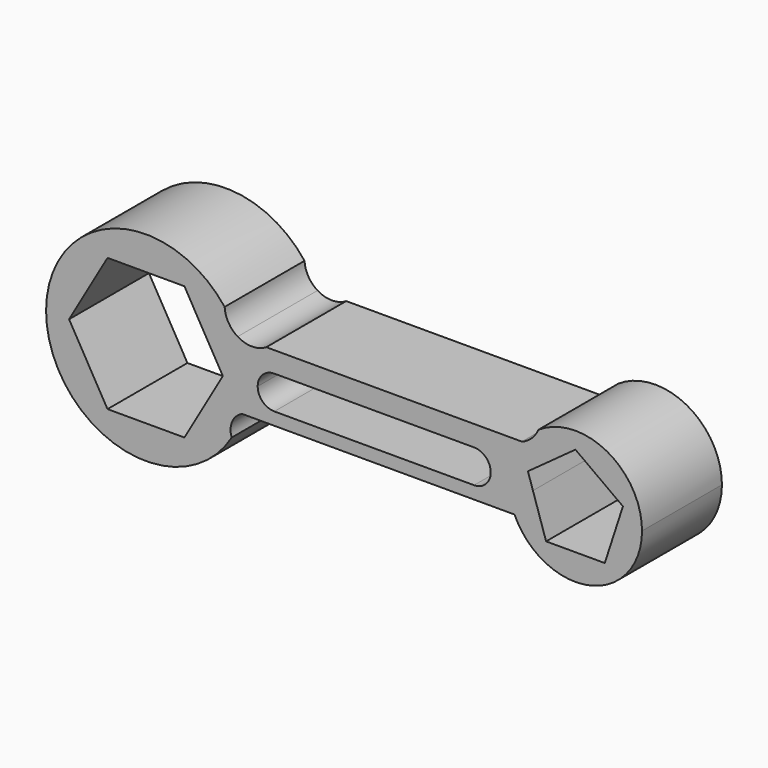
from build123d import *

# Parameters (mm, degrees)
F1_DEPTH = 30


with BuildPart() as f1:
    # F0 (on Front) → F1 (new body)
    with BuildSketch(Plane.XZ):
        with BuildLine():
            ThreePointArc((-75.37317, 11.881729), (-78.141593, 14.693346), (-79.280649, 18.471164))
            ThreePointArc((-79.280649, 18.471164), (-132.861911, -1.86504), (-77.171185, -15.394857))
            ThreePointArc((-77.171185, -15.394857), (-77.037469, -11.140109), (-74.03926, -8.118271))
            ThreePointArc((-74.03926, -8.118271), (-72.986443, 1.99643), (-75.37317, 11.881729))
        make_face()
        Polygon((-126.013951, 0), (-114.466945, 20), (-91.372935, 20), (-79.825929, 0), (-91.372935, -20), (-114.466945, -20), align=None, mode=Mode.SUBTRACT)
        with BuildLine():
            ThreePointArc((-66.770934, 11.881729), (-71.072052, 10.666475), (-75.37317, 11.881729))
            ThreePointArc((-75.37317, 11.881729), (-72.986443, 1.99643), (-74.03926, -8.118271))
            ThreePointArc((-74.03926, -8.118271), (-71.700224, -7.626694), (-69.361188, -8.118271))
            Line((-69.361188, -8.118271), (2.590253, -8.118271))
            ThreePointArc((2.590253, -8.118271), (5.196042, -7.350089), (7.801831, -8.118271))
            ThreePointArc((7.801831, -8.118271), (6.515237, -4.149422), (6.08006, 0))
            ThreePointArc((6.08006, 0), (7.083212, 6.254579), (9.992036, 11.881729))
            ThreePointArc((9.992036, 11.881729), (7.154561, 11.386775), (4.317087, 11.881729))
            Line((4.317087, 11.881729), (-66.770934, 11.881729))
        make_face()
        with BuildLine():
            ThreePointArc((-69.361188, 0.682914), (-67.896721, 4.218448), (-64.361188, 5.682914))
            Line((-64.361188, 5.682914), (-4.361188, 5.682914))
            ThreePointArc((-4.361188, 5.682914), (-0.825654, 4.218448), (0.638812, 0.682914))
            ThreePointArc((0.638812, 0.682914), (-0.825654, -2.85262), (-4.361188, -4.317086))
            Line((-4.361188, -4.317086), (-64.361188, -4.317086))
            ThreePointArc((-64.361188, -4.317086), (-67.896721, -2.85262), (-69.361188, 0.682914))
        make_face(mode=Mode.SUBTRACT)
        with BuildLine():
            ThreePointArc((-69.361188, -8.118271), (-71.700224, -7.626694), (-74.03926, -8.118271))
            Line((-74.03926, -8.118271), (-69.361188, -8.118271))
        make_face()
        with BuildLine():
            Line((9.992036, 11.881729), (4.317087, 11.881729))
            ThreePointArc((4.317087, 11.881729), (7.154561, 11.386775), (9.992036, 11.881729))
        make_face()
        with BuildLine():
            ThreePointArc((7.801831, -8.118271), (5.196042, -7.350089), (2.590253, -8.118271))
            Line((2.590253, -8.118271), (7.801831, -8.118271))
        make_face()
        with BuildLine():
            ThreePointArc((14.90952, 16.589727), (12.950355, 13.713922), (9.992036, 11.881729))
            ThreePointArc((9.992036, 11.881729), (7.083212, 6.254579), (6.08006, 0))
            Line((6.08006, 0), (13.320298, 0))
            Line((13.320298, 0), (11.814212, 4.635255))
            Line((11.814212, 4.635255), (26.08006, 15))
            Line((26.08006, 15), (40.345908, 4.635255))
            Line((40.345908, 4.635255), (38.839822, 0))
            Line((38.839822, 0), (46.08006, 0))
            ThreePointArc((46.08006, 0), (35.476581, 17.65518), (14.90952, 16.589727))
        make_face()
        with BuildLine():
            ThreePointArc((9.992036, -11.881729), (9.347849, -9.737582), (7.801831, -8.118271))
            ThreePointArc((7.801831, -8.118271), (8.794206, -10.059784), (9.992036, -11.881729))
        make_face()
        with BuildLine():
            ThreePointArc((6.08006, 0), (6.515237, -4.149422), (7.801831, -8.118271))
            ThreePointArc((7.801831, -8.118271), (9.347849, -9.737582), (9.992036, -11.881729))
            ThreePointArc((9.992036, -11.881729), (32.334639, -18.996848), (46.08006, 0))
            Line((46.08006, 0), (38.839822, 0))
            Line((38.839822, 0), (34.896839, -12.135255))
            Line((34.896839, -12.135255), (17.263281, -12.135255))
            Line((17.263281, -12.135255), (13.320298, 0))
            Line((13.320298, 0), (6.08006, 0))
        make_face()
    extrude(amount=F1_DEPTH)


solid = f1.part
